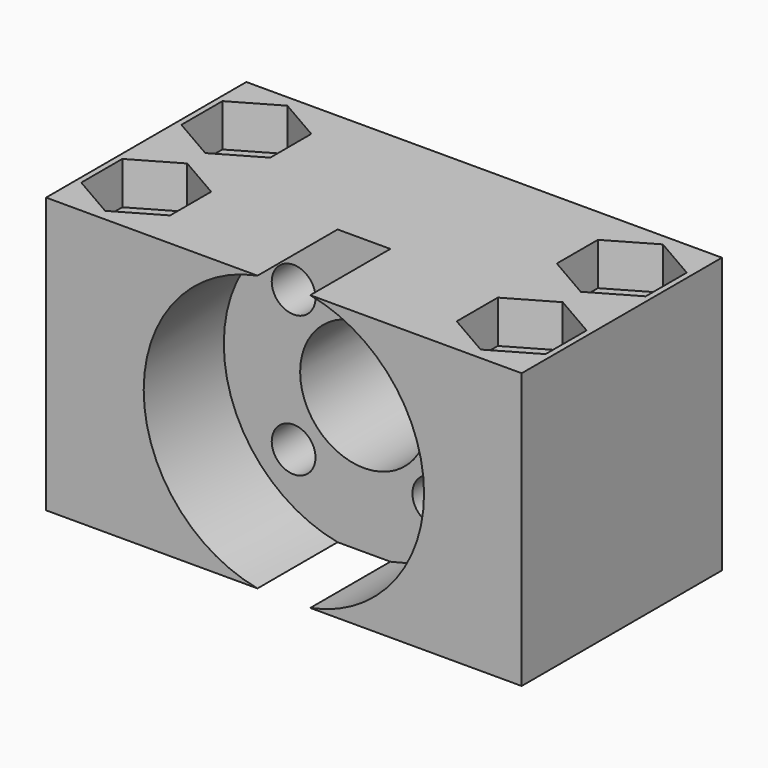
from build123d import *

# Parameters (mm, degrees)
SKETCH_W        = 38
SKETCH_H        = 20
SKETCH_R        = 2.1
PAD_DEPTH       = 22
SKETCH001_R     = 11.2
POCKET_DEPTH    = 8
SKETCH002_R     = 5.1
SKETCH002_R_2   = 1.75
POCKET001_DEPTH = 20
POCKET002_DEPTH = 3.4


with BuildPart() as part:
    # Sketch → Pad (new body)
    with BuildSketch(Plane.XY):
        with Locations((19, 10)):
            Rectangle(SKETCH_W, SKETCH_H)
        with Locations((4, 15)):
            Circle(SKETCH_R, mode=Mode.SUBTRACT)
        with Locations((4, 5)):
            Circle(SKETCH_R, mode=Mode.SUBTRACT)
        with Locations((34, 15)):
            Circle(SKETCH_R, mode=Mode.SUBTRACT)
        with Locations((34, 5)):
            Circle(SKETCH_R, mode=Mode.SUBTRACT)
    extrude(amount=PAD_DEPTH)

    # Sketch001 (on Face3 of Pad) → Pocket (cut)
    with BuildSketch(Plane.XZ):
        with Locations((19, 11)):
            Circle(SKETCH001_R)
    extrude(amount=-POCKET_DEPTH, mode=Mode.SUBTRACT)

    # Sketch002 (on Face1 of Pocket) → Pocket001 (cut)
    with BuildSketch(Plane(origin=(0, 20, 0), x_dir=(-1, 0, 0), z_dir=(0, 1, 0))):
        with Locations((-19, 11)):
            Circle(SKETCH002_R)
        with Locations((-13.378501, 16.621499)):
            Circle(SKETCH002_R_2)
        with Locations((-24.621499, 5.378501)):
            Circle(SKETCH002_R_2)
        with Locations((-24.621499, 16.621499)):
            Circle(SKETCH002_R_2)
        with Locations((-13.378501, 5.378501)):
            Circle(SKETCH002_R_2)
    extrude(amount=-POCKET001_DEPTH, mode=Mode.SUBTRACT)

    # Sketch003 (on Face4 of Pocket001) → Pocket002 (cut)
    with BuildSketch(Plane.XY.offset(22)):
        Polygon((4, 10.900813), (7.55, 12.950407), (7.55, 17.049593), (4, 19.099187), (0.45, 17.049593), (0.45, 12.950407), align=None)
        Polygon((34, 10.900813), (37.55, 12.950407), (37.55, 17.049593), (34, 19.099187), (30.45, 17.049593), (30.45, 12.950407), align=None)
        Polygon((34, 9.099187), (30.45, 7.049593), (30.45, 2.950407), (34, 0.900813), (37.55, 2.950407), (37.55, 7.049593), align=None)
        Polygon((4, 9.099187), (0.45, 7.049593), (0.45, 2.950407), (4, 0.900813), (7.55, 2.950407), (7.55, 7.049593), align=None)
    extrude(amount=-POCKET002_DEPTH, mode=Mode.SUBTRACT)


solid = part.part
